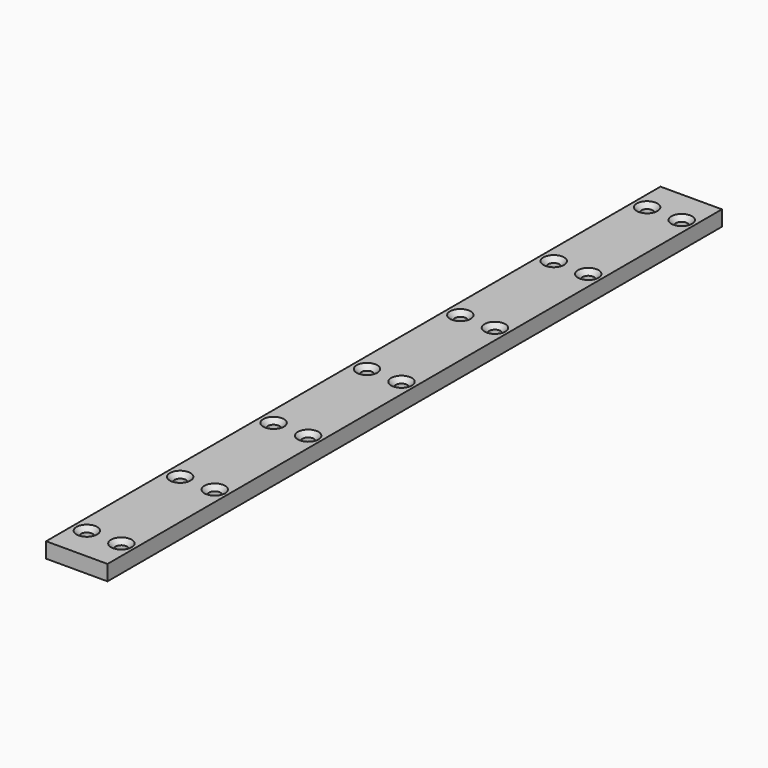
from build123d import *

# Parameters (mm, degrees)
F0_W           = 40
F0_H           = 10
F1_DEPTH       = 500
F3_D           = 7.5
F3_CSINK_D     = 13.44
F3_CSINK_ANGLE = 90


with BuildPart() as f1:
    # F0 (on Front) → F1 (new body)
    with BuildSketch(Plane.XZ):
        with Locations((20, 5)):
            Rectangle(F0_W, F0_H)
    extrude(amount=F1_DEPTH)

    # F3 (through all)
    with Locations(Plane.XY.offset(10)):
        with Locations((8.912647, -478), (31.412647, -478), (8.912647, -402), (31.412647, -402), (31.412647, -326), (8.912647, -250), (8.912647, -174), (31.412647, -174), (8.912647, -326), (8.912647, -98), (31.412647, -98), (8.912647, -22), (31.412647, -22), (31.412647, -250)):
            CounterSinkHole(F3_D / 2, F3_CSINK_D / 2, counter_sink_angle=F3_CSINK_ANGLE)


solid = f1.part
